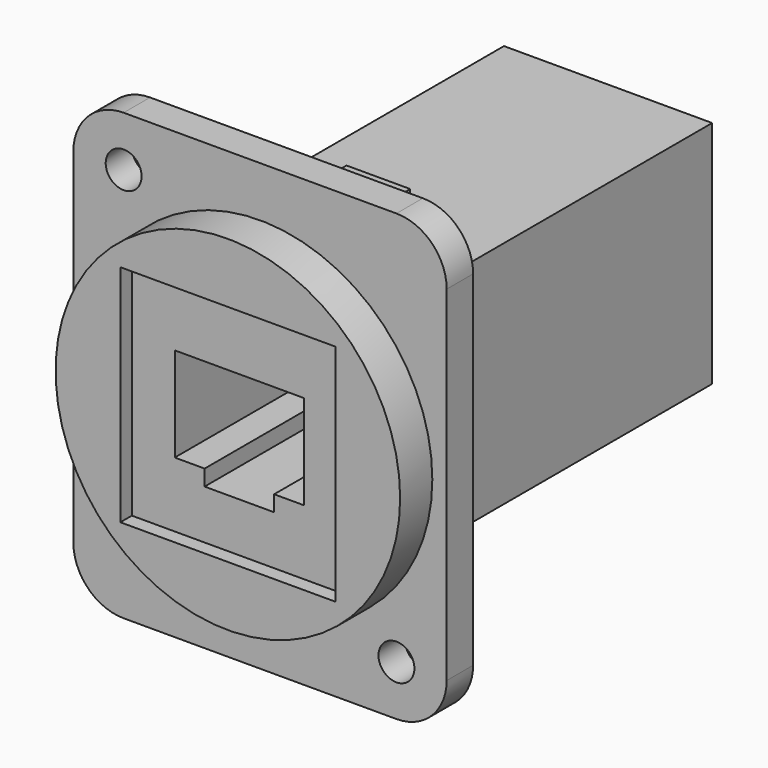
from build123d import *

# Parameters (mm, degrees)
F0_R      = 1.25
F0_R_2    = 12
F1_DEPTH  = 2.3
F2_DEPTH  = 5.1
F3_W      = 14.9775519967
F3_H      = 15.6408976763
F3_W_2    = 4.8427809961
F3_H_2    = 1.104
F4_DEPTH  = 1
F5_DEPTH  = 3
F6_W      = 14.5
F6_H      = 16
F7_DEPTH  = 28
F8_W      = 4.4338763691
F8_H      = 4.8907462656
F9_DEPTH  = 8
F10_DEPTH = 30.1


with BuildPart() as f1:
    # F0 (on Front) → F1 (new body)
    with BuildSketch(Plane.XZ):
        with BuildLine():
            ThreePointArc((13, 12), (11.9748737342, 14.4748737342), (9.5, 15.5))
            Line((9.5, 15.5), (-9.5, 15.5))
            ThreePointArc((-9.5, 15.5), (-11.9748737342, 14.4748737342), (-13, 12))
            Line((-13, 12), (-13, -12))
            ThreePointArc((-13, -12), (-11.9748737342, -14.4748737342), (-9.5, -15.5))
            Line((-9.5, -15.5), (9.5, -15.5))
            ThreePointArc((9.5, -15.5), (11.9748737342, -14.4748737342), (13, -12))
            Line((13, -12), (13, 12))
        make_face()
        with Locations((9.5, -12)):
            Circle(F0_R, mode=Mode.SUBTRACT)
        with Locations((-9.5, 12)):
            Circle(F0_R, mode=Mode.SUBTRACT)
        Circle(F0_R_2, mode=Mode.SUBTRACT)
        Circle(F0_R_2)
    extrude(amount=F1_DEPTH)

    # F0 (on Front) → F2 (join)
    with BuildSketch(Plane.XZ):
        Circle(F0_R_2)
    extrude(amount=F2_DEPTH)

    # F3 (on face) → F4 (cut)
    with BuildSketch(Plane.XZ.offset(5.1)):
        Rectangle(F3_W, F3_H)
        Polygon((-4.5, 3.2868520357), (4.5, 3.2868520357), (4.5, -3.2868520357), (2.4213904981, -3.2868520357), (2.4213904981, -4.3908520357), (-2.4213904981, -4.3908520357), (-2.4213904981, -3.2868520357), (-4.5, -3.2868520357), align=None, mode=Mode.SUBTRACT)
        Polygon((4.5, -3.2868520357), (4.5, 3.2868520357), (-4.5, 3.2868520357), (-4.5, -3.2868520357), (-2.4213904981, -3.2868520357), (-2.4213904981, -2.1828520357), (2.4213904981, -2.1828520357), (2.4213904981, -3.2868520357), align=None)
        with Locations((0, -2.7348520357)):
            Rectangle(F3_W_2, F3_H_2)
        with Locations((0, -3.8388520357)):
            Rectangle(F3_W_2, F3_H_2)
    extrude(amount=-F4_DEPTH, mode=Mode.SUBTRACT)

    # F3 (on face) → F5 (cut)
    with BuildSketch(Plane.XZ.offset(5.1)):
        Polygon((4.5, -3.2868520357), (4.5, 3.2868520357), (-4.5, 3.2868520357), (-4.5, -3.2868520357), (-2.4213904981, -3.2868520357), (-2.4213904981, -2.1828520357), (2.4213904981, -2.1828520357), (2.4213904981, -3.2868520357), align=None)
        with Locations((0, -2.7348520357)):
            Rectangle(F3_W_2, F3_H_2)
        with Locations((0, -3.8388520357)):
            Rectangle(F3_W_2, F3_H_2)
    extrude(amount=-F5_DEPTH, mode=Mode.SUBTRACT)

    # F6 (on face) → F7 (join)
    with BuildSketch(Plane(origin=(0, 0, 0), x_dir=(-1, 0, 0), z_dir=(0, 1, 0))):
        Rectangle(F6_W, F6_H)
    extrude(amount=F7_DEPTH)

    # F8 (on face) → F9 (join)
    with BuildSketch(Plane(origin=(0, 0, 0), x_dir=(-1, 0, 0), z_dir=(0, 1, 0))):
        with Locations((0, 8)):
            Rectangle(F8_W, F8_H)
    extrude(amount=F9_DEPTH)

    # F10 (cut, through all): a face of the model
    f10_faces = [f1.faces().sort_by_distance(p)[0] for p in [
        (0, -2.1, -0.3181557698),
    ]]
    extrude(f10_faces, amount=-F10_DEPTH, mode=Mode.SUBTRACT)


solid = f1.part
